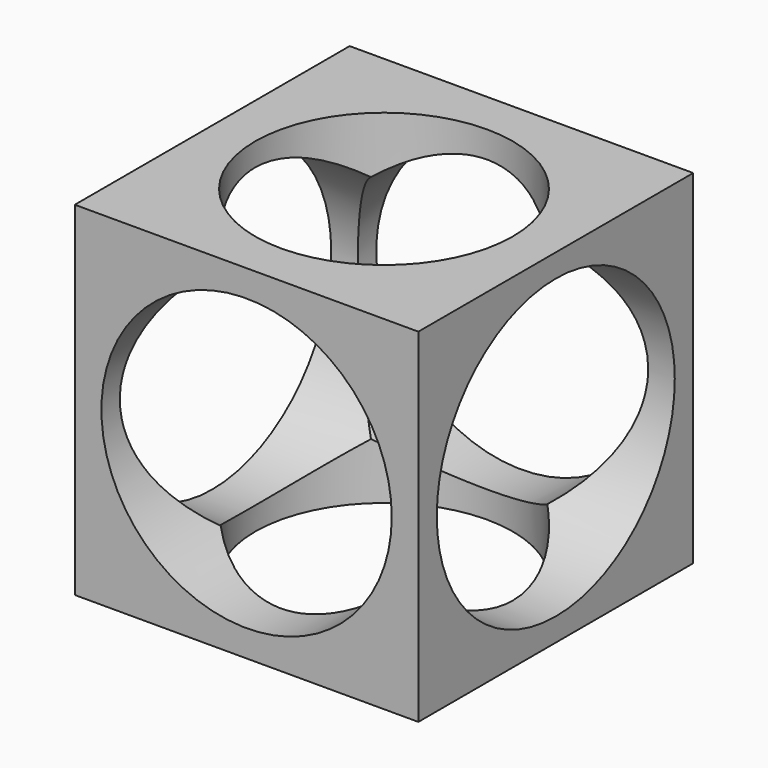
from build123d import *

# Parameters (mm, degrees)
F0_W     = 508
F0_H     = 508
F1_DEPTH = 508
F2_R     = 190.5
F3_DEPTH = 508
F4_R     = 214.65989
F5_DEPTH = 558.8
F6_R     = 219.933008
F7_DEPTH = 558.8


with BuildPart() as f1:
    # F0 (on Top) → F1 (new body)
    with BuildSketch(Plane.XY):
        Rectangle(F0_W, F0_H)
    extrude(amount=F1_DEPTH)

    # F2 (on face) → F3 (cut, through all)
    with BuildSketch(Plane.XY.offset(508)):
        Circle(F2_R)
    extrude(amount=-F3_DEPTH, mode=Mode.SUBTRACT)

    # F4 (on face) → F5 (cut)
    with BuildSketch(Plane.XZ.offset(254)):
        with Locations((0, 254)):
            Circle(F4_R)
    extrude(amount=-F5_DEPTH, mode=Mode.SUBTRACT)

    # F6 (on face) → F7 (cut)
    with BuildSketch(Plane.YZ.offset(254)):
        with Locations((0, 254)):
            Circle(F6_R)
    extrude(amount=-F7_DEPTH, mode=Mode.SUBTRACT)


solid = f1.part
